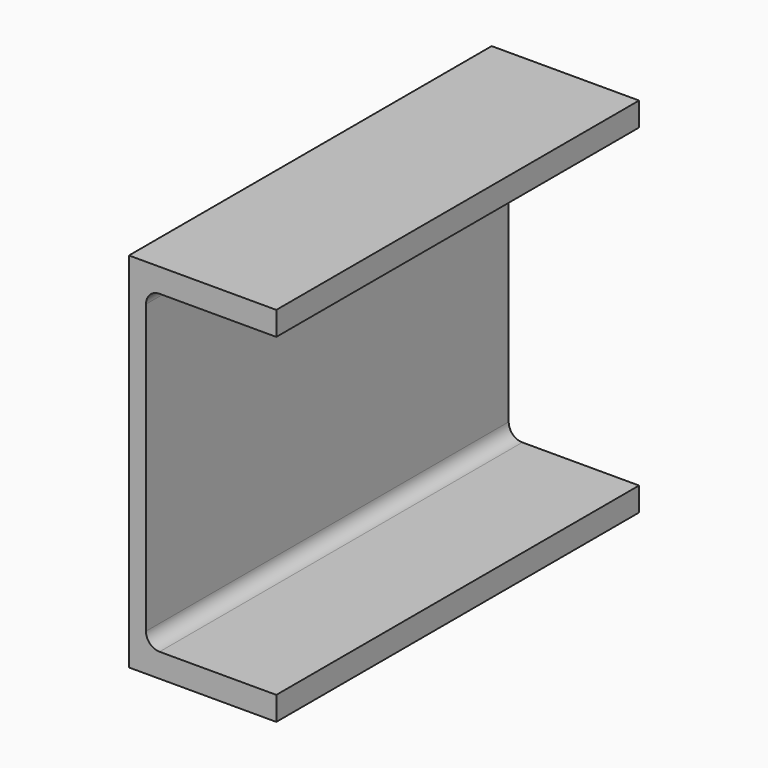
from build123d import *

# Parameters (mm, degrees)
F1_DEPTH = 200


with BuildPart() as f1:
    # F0 (on Front) → F1 (new body)
    with BuildSketch(Plane.XZ):
        with BuildLine():
            Line((32.5, 69.5), (32.5, 80))
            Line((32.5, 80), (-32.5, 80))
            Line((-32.5, 80), (-32.5, -80))
            Line((-32.5, -80), (32.5, -80))
            Line((32.5, -80), (32.5, -69.5))
            Line((32.5, -69.5), (-19, -69.5))
            ThreePointArc((-19, -69.5), (-23.242641, -67.742641), (-25, -63.5))
            Line((-25, -63.5), (-25, 63.5))
            ThreePointArc((-25, 63.5), (-23.242641, 67.742641), (-19, 69.5))
            Line((-19, 69.5), (32.5, 69.5))
        make_face()
    extrude(amount=-F1_DEPTH)


solid = f1.part
